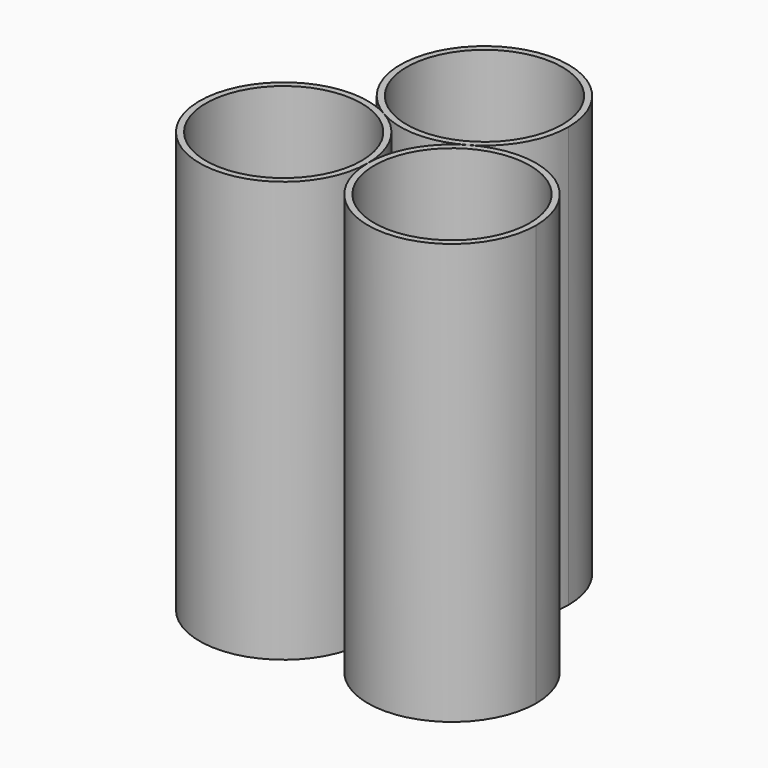
from build123d import *

# Parameters (mm, degrees)
F0_R     = 9.25
F1_DEPTH = 50


with BuildPart() as f1:
    # F0 (on Top) → F1 (new body)
    with BuildSketch(Plane.XY):
        with BuildLine():
            ThreePointArc((20, 17.320508), (5, 25.980762), (5, 8.660254))
            ThreePointArc((5, 8.660254), (10, 7.320508), (15, 8.660254))
            ThreePointArc((15, 8.660254), (18.660254, 12.320508), (20, 17.320508))
        make_face()
        with Locations((10, 17.320508)):
            Circle(F0_R, mode=Mode.SUBTRACT)
        with BuildLine():
            ThreePointArc((15, 8.660254), (11.339746, 5), (10, 0))
            ThreePointArc((10, 0), (20, -10), (30, 0))
            ThreePointArc((30, 0), (25, 8.660254), (15, 8.660254))
        make_face()
        with Locations((20, 0)):
            Circle(F0_R, mode=Mode.SUBTRACT)
        with BuildLine():
            ThreePointArc((5, 8.660254), (-8.660254, -5), (10, 0))
            ThreePointArc((10, 0), (8.660254, 5), (5, 8.660254))
        make_face()
        Circle(F0_R, mode=Mode.SUBTRACT)
    extrude(amount=F1_DEPTH)


solid = f1.part
